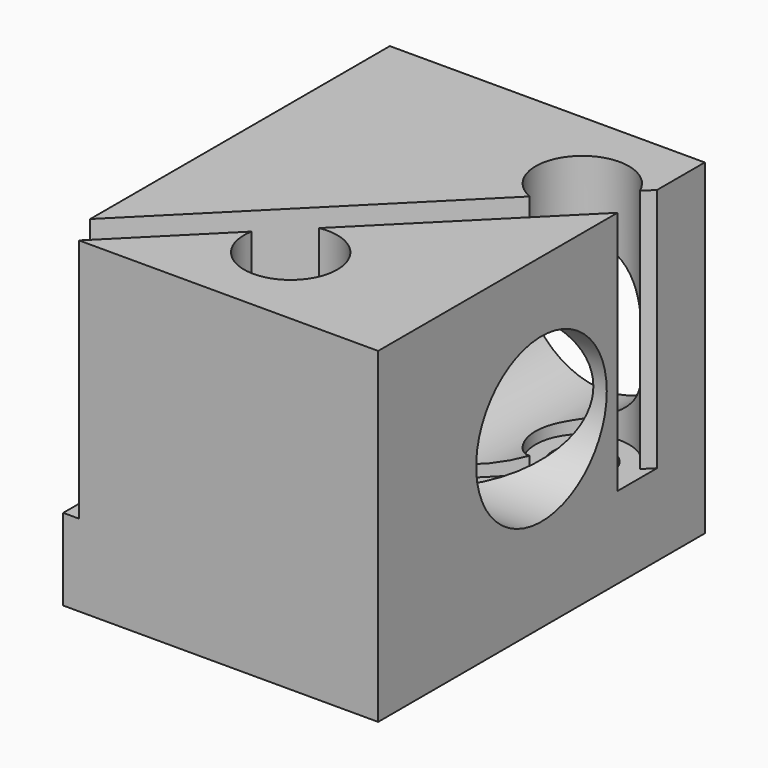
from build123d import *

# Parameters (mm, degrees)
SKETCH_W        = 27
SKETCH_H        = 35
SKETCH_R        = 2.5
PAD_DEPTH       = 28
POCKET_DEPTH    = 21
SKETCH002_R     = 7
POCKET001_DEPTH = 20
SKETCH003_R     = 7
POCKET002_DEPTH = 27.001
SKETCH004_R     = 4
POCKET003_DEPTH = 21


with BuildPart() as part:
    # Sketch → Pad (new body)
    with BuildSketch(Plane.XY):
        with Locations((3.5, 0)):
            Rectangle(SKETCH_W, SKETCH_H)
        with Locations((3.5, -10)):
            Circle(SKETCH_R, mode=Mode.SUBTRACT)
        with Locations((12.5, 10)):
            Circle(SKETCH_R, mode=Mode.SUBTRACT)
    extrude(amount=PAD_DEPTH)

    # Sketch001 (on Face1 of CopyCut001) → Pocket (cut)
    with BuildSketch(Plane.XY.offset(28)):
        Polygon((17, 12.392641), (-10, -14.607359), (-10, -18.85), (17, 8.15), align=None)
    extrude(amount=-POCKET_DEPTH, mode=Mode.SUBTRACT)

    # Sketch002 (on Face1 of Pocket) → Pocket001 (cut)
    with BuildSketch(Plane(origin=(0, 17.5, 0), x_dir=(-1, 0, 0), z_dir=(0, 1, 0))):
        with Locations((-8.5, 15)):
            Circle(SKETCH002_R)
    extrude(amount=-POCKET001_DEPTH, mode=Mode.SUBTRACT)

    # Sketch003 (on Face5 of Pocket001) → Pocket002 (cut, through all)
    with BuildSketch(Plane.YZ.offset(17)):
        with Locations((0, 15)):
            Circle(SKETCH003_R)
    extrude(amount=-POCKET002_DEPTH, mode=Mode.SUBTRACT)

    # Sketch004 (on Sketch) → Pocket003 (cut)
    with BuildSketch(Plane(origin=(8, 0, 28), x_dir=(0.911922, -0.410365, 0), z_dir=(0, 0, 1))):
        with Locations((0, 10.965856)):
            Circle(SKETCH004_R)
        with Locations((0, -10.965856)):
            Circle(SKETCH004_R)
    extrude(amount=-POCKET003_DEPTH, mode=Mode.SUBTRACT)


solid = part.part
